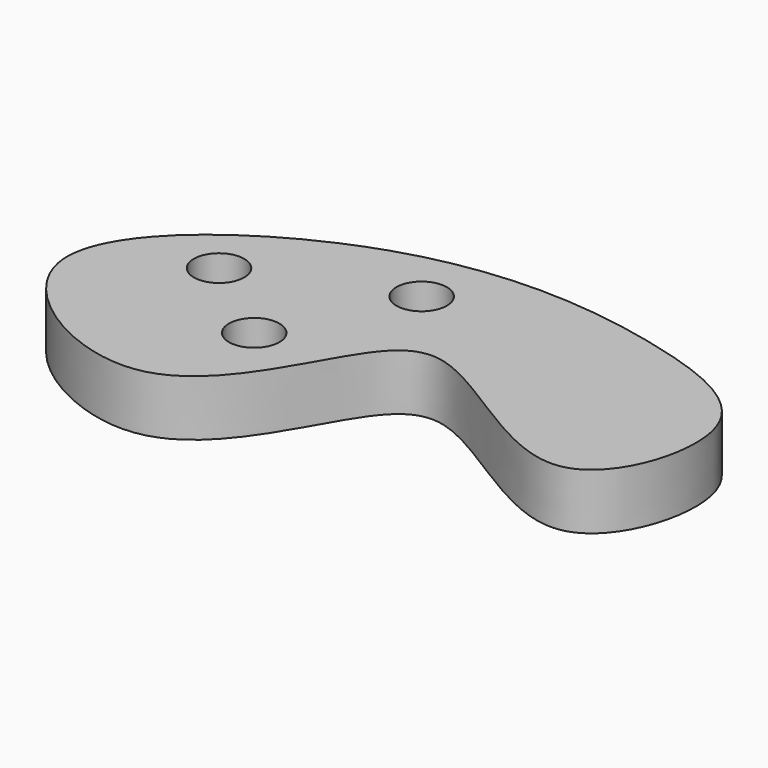
from build123d import *

# Parameters (mm, degrees)
F1_DEPTH = 10
F3_D     = 9


with BuildPart() as f1:
    # F0 (on Top) → F1 (new body)
    with BuildSketch(Plane.XY):
        with BuildLine():
            add(Edge.make_bspline(
                [(-26.2500010431, 21.2417766452), (-8.5151359392, 27.1228011331), (20.3081997347, 23.929595432), (49.0362352642, 11.7900567731), (35.8463308862, -28.3957516485), (-0.7955218935, 7.4622034136), (-12.5969415791, -8.4269489903), (-27.3897745379, -39.5406172677), (-77.5730451348, -8.8929318363), (-43.5392519563, 15.5085214215), (-26.2500010431, 21.2417766452)],
                knots=[0, 0, 0, 0, 0.1557206584, 0.2683493113, 0.3776237671, 0.5124716778, 0.597668471, 0.7168696222, 0.8481920488, 1, 1, 1, 1], degree=3))
        make_face()
    extrude(amount=F1_DEPTH)

    # F3 (through all)
    with Locations(Plane.XY.offset(10)):
        with Locations((-41.4919517934, 2.2701420821), (-25.463713333, -9.9175823852), (-14.1064273193, 13.2395224646)):
            Hole(F3_D / 2)


solid = f1.part
